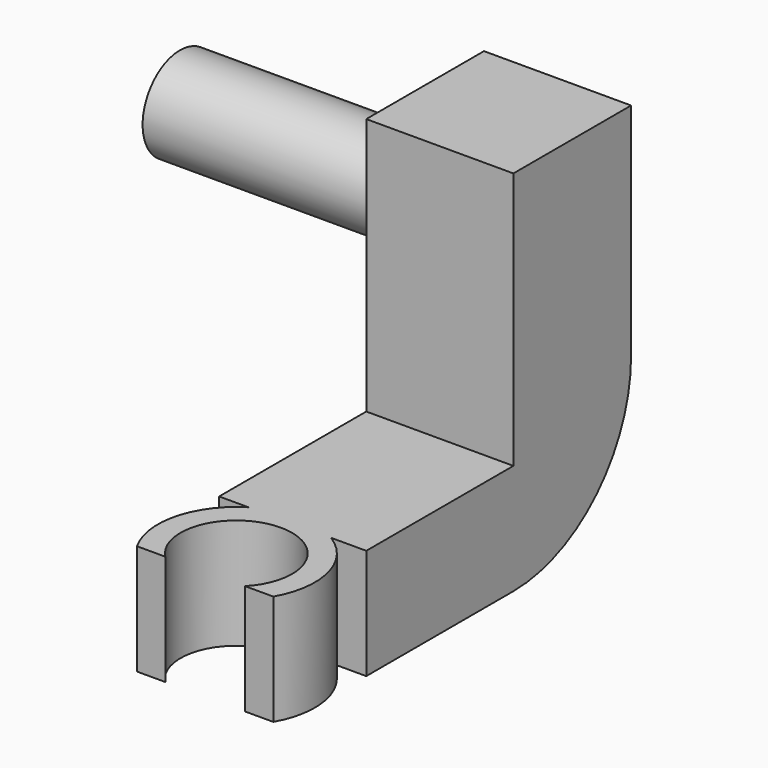
from build123d import *

# Parameters (mm, degrees)
F0_W      = 5.08
F0_H      = 12.7
F1_DEPTH  = 5.08
F2_W      = 5.08
F2_H      = 3.81
F3_DEPTH  = 6.35
F4_R      = 5.08
F5_R      = 2.7121475218
F6_DEPTH  = 3.81
F7_R      = 1.9253373718
F8_DEPTH  = 3.81
F9_W      = 5.3527112813
F9_H      = 1.6279429131
F10_DEPTH = 3.81
F11_SCALE = 1.5
F12_R     = 2.413
F13_DEPTH = 20.32


with BuildPart() as f1:
    # F0 (on Front) → F1 (new body)
    with BuildSketch(Plane.XZ):
        with Locations((2.54, 20.2292869008)):
            Rectangle(F0_W, F0_H)
    extrude(amount=F1_DEPTH)

    # F2 (on face) → F3 (join)
    with BuildSketch(Plane.XZ.offset(5.08)):
        with Locations((2.54, 15.7842869008)):
            Rectangle(F2_W, F2_H)
    extrude(amount=F3_DEPTH)

    # F4
    f4_edges = [f1.edges().sort_by_distance(p)[0] for p in [
        (2.54, 0, 13.879287),
    ]]
    fillet(f4_edges, radius=F4_R)

    # F5 (on face) → F6 (join)
    with BuildSketch(Plane.XY.offset(17.6892869008)):
        with Locations((2.4383503072, -13.7368525874)):
            Circle(F5_R)
    extrude(amount=-F6_DEPTH)

    # F7 (on face) → F8 (cut)
    with BuildSketch(Plane.XY.offset(17.6892869008)):
        with Locations((2.4383503072, -13.7368525874)):
            Circle(F7_R)
    extrude(amount=-F8_DEPTH, mode=Mode.SUBTRACT)

    # F9 (on face) → F10 (cut)
    with BuildSketch(Plane.XY.offset(17.6892869008)):
        with Locations((2.7606785416, -15.8977832678)):
            Rectangle(F9_W, F9_H)
    extrude(amount=-F10_DEPTH, mode=Mode.SUBTRACT)


with BuildPart() as f1_1:
    # F11: moved
    add(f1.part.scale(F11_SCALE))

    # F12 (on face) → F13 (join)
    with BuildSketch(Plane.YZ.offset(7.62)):
        with Locations((-3.81, 34.9159303513)):
            Circle(F12_R)
    extrude(amount=-F13_DEPTH)


solid = f1_1.part
